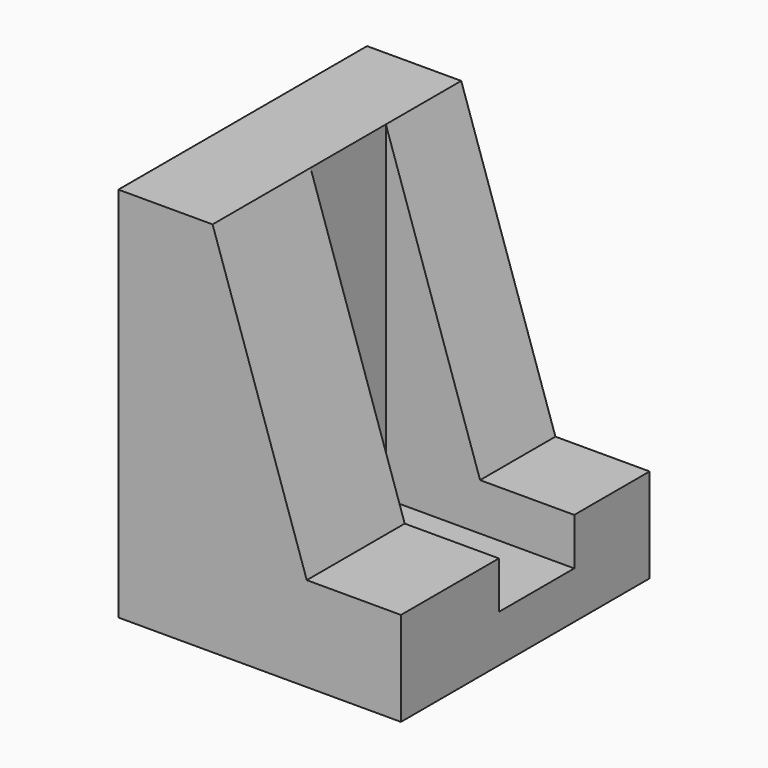
from build123d import *

# Parameters (mm, degrees)
F1_DEPTH = 3
F2_DEPTH = 30
F3_W     = 20
F3_H     = 10
F4_DEPTH = 35


with BuildPart() as f1:
    # F0 (on Front) → F1 (new body)
    with BuildSketch(Plane.XZ):
        Polygon((0, 40), (0, 0), (30, 0), (30, 10), (20, 10), (10, 40), align=None)
    extrude(amount=F1_DEPTH)

    # F1_face (on face) → F2 (join)
    with BuildSketch(Plane(origin=(10.666667, -3, 16), x_dir=(1, 0, 0), z_dir=(0, -1, 0))):
        Polygon((-10.666667, 24), (-10.666667, -16), (19.333333, -16), (19.333333, -6), (9.333333, -6), (-0.666667, 24), align=None)
    extrude(amount=F2_DEPTH)

    # F3 (on face) → F4 (cut)
    with BuildSketch(Plane.XY.offset(40)):
        with Locations((20, -15)):
            Rectangle(F3_W, F3_H)
    extrude(amount=-F4_DEPTH, mode=Mode.SUBTRACT)


solid = f1.part
